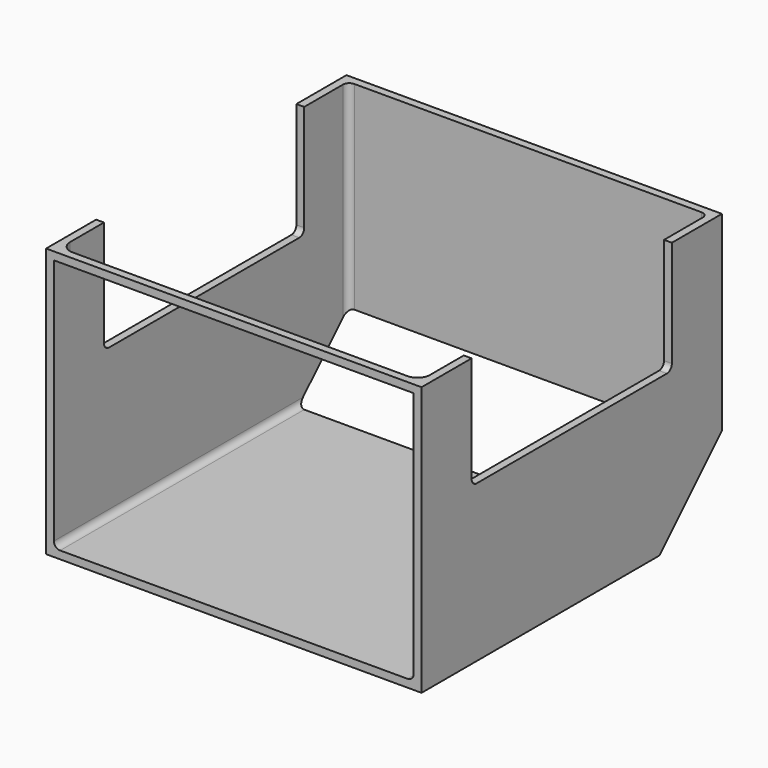
from build123d import *

# Parameters (mm, degrees)
F0_W     = 152.4
F0_H     = 109.22
F1_DEPTH = 152.4
F2_T     = -3.175
F3_W     = 101.6
F3_H     = 45.72
F4_DEPTH = 152.401
F5_W     = 146.05
F5_H     = 22.225
F5_H_2   = 123.825
F6_DEPTH = 25.4
F8_DEPTH = 152.401
F9_R     = 2.54
F10_R    = 5.08


with BuildPart() as f1:
    # F0 (on Front) → F1 (new body)
    with BuildSketch(Plane.XZ):
        with Locations((76.2, 54.61)):
            Rectangle(F0_W, F0_H)
    extrude(amount=F1_DEPTH)

    # F2
    f2_openings = [f1.faces().sort_by_distance(p)[0] for p in [
        (76.2, -152.4, 54.61),
    ]]
    offset(amount=F2_T, openings=f2_openings)

    # F3 (on face) → F4 (cut, through all)
    with BuildSketch(Plane.YZ.offset(152.4)):
        with Locations((-76.2, 86.36)):
            Rectangle(F3_W, F3_H)
    extrude(amount=-F4_DEPTH, mode=Mode.SUBTRACT)

    # F5 (on face) → F6 (cut)
    with BuildSketch(Plane.XY.offset(109.22)):
        with Locations((76.2, -138.1125)):
            Rectangle(F5_W, F5_H)
        with Locations((76.2, -65.0875)):
            Rectangle(F5_W, F5_H_2)
    extrude(amount=-F6_DEPTH, mode=Mode.SUBTRACT)

    # F7 (on face) → F8 (cut, through all)
    with BuildSketch(Plane.YZ.offset(152.4)):
        Polygon((-31.75, 0), (0, 0), (0, 31.75), align=None)
    extrude(amount=-F8_DEPTH, mode=Mode.SUBTRACT)

    # F9
    f9_edges = [f1.edges().sort_by_distance(p)[0] for p in [
        (3.175, -90.4875, 3.175),
        (3.175, -3.175, 68.8975),
        (149.225, -3.175, 68.8975),
        (1.5875, -25.4, 63.5),
        (150.8125, -25.4, 63.5),
        (150.8125, -127, 63.5),
        (1.5875, -127, 63.5),
        (149.225, -90.4875, 3.175),
    ]]
    fillet(f9_edges, radius=F9_R)

    # F10
    f10_edges = [f1.edges().sort_by_distance(p)[0] for p in [
        (3.175, -149.225, 107.6325),
        (149.225, -149.225, 107.6325),
    ]]
    fillet(f10_edges, radius=F10_R)


solid = f1.part
